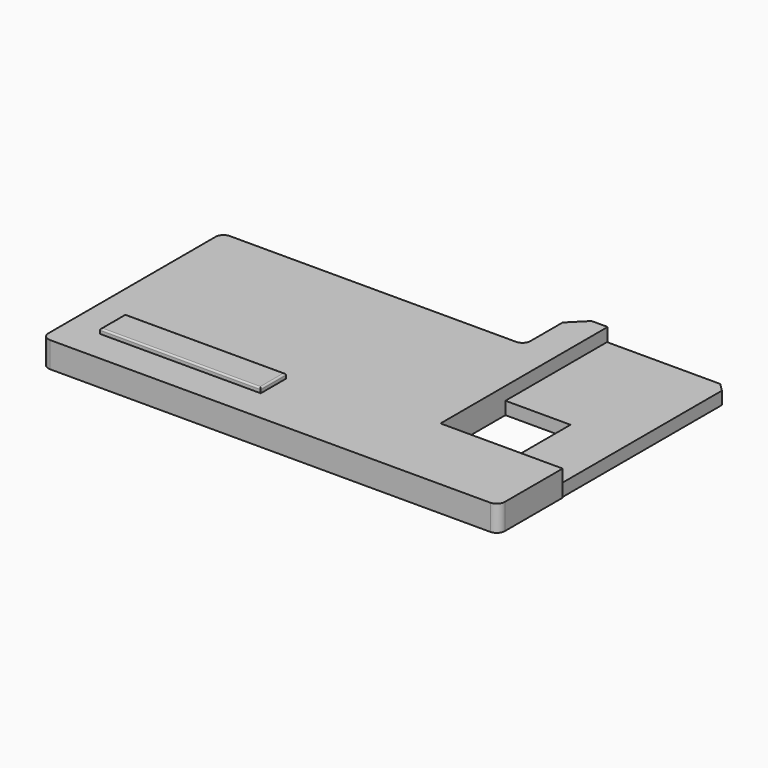
from build123d import *

# Parameters (mm, degrees)
PAD_DEPTH       = 3.95
PAD001_DEPTH    = 8
SKETCH003_W     = 50
SKETCH003_H     = 9.8
PAD002_DEPTH    = 1.5
CHAMFER_SIZE    = 2.5
CHAMFER001_SIZE = 5
FILLET_R        = 2.5
FILLET001_R     = 0.5


with BuildPart() as part:
    # Sketch → Pad (new body)
    with BuildSketch(Plane.XY):
        Polygon((-45, 19.75), (-45, -19.75), (-24.75, -19.75), (-24.75, -45), (-7.25, -45), (-7.25, 19.75), align=None)
    extrude(amount=PAD_DEPTH)

    # Sketch002 → Pad001 (join)
    with BuildSketch(Plane.XY):
        Polygon((-45, 20), (-55, 20), (-55, 0), (-149, 0), (-149, -70), (-7, -70), (-7, -45), (-45, -45), align=None)
    extrude(amount=PAD001_DEPTH)

    # Sketch003 (on Face7 of Pad001) → Pad002 (join)
    with BuildSketch(Plane.XY.offset(8)):
        with Locations((-114, -55)):
            Rectangle(SKETCH003_W, SKETCH003_H)
    extrude(amount=PAD002_DEPTH)

    # Chamfer
    chamfer_edges = [part.edges().sort_by_distance(p)[0] for p in [
        (-7.25, 19.75, 1.975),
    ]]
    chamfer(chamfer_edges, length=CHAMFER_SIZE)

    # Chamfer001
    chamfer001_edges = [part.edges().sort_by_distance(p)[0] for p in [
        (-55, 20, 4),
    ]]
    chamfer(chamfer001_edges, length=CHAMFER001_SIZE)

    # Fillet
    fillet_edges = [part.edges().sort_by_distance(p)[0] for p in [
        (-55, 0, 4),
        (-149, 0, 4),
        (-149, -70, 4),
        (-7, -70, 4),
    ]]
    fillet(fillet_edges, radius=FILLET_R)

    # Fillet001
    fillet001_edges = [part.edges().sort_by_distance(p)[0] for p in [
        (-114, -59.9, 9.5),
        (-89, -55, 9.5),
        (-114, -50.1, 9.5),
        (-139, -55, 9.5),
    ]]
    fillet(fillet001_edges, radius=FILLET001_R)


solid = part.part
